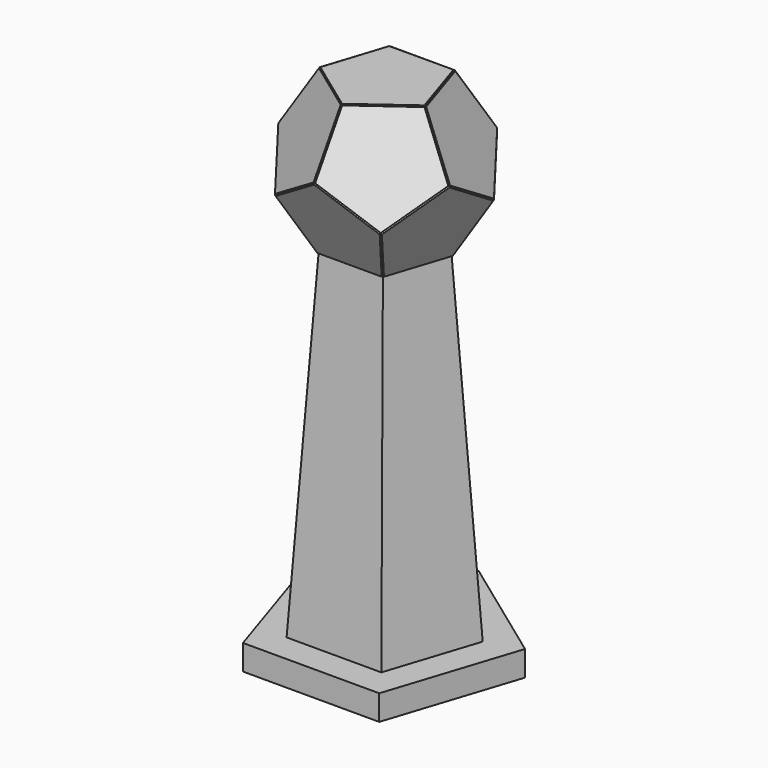
from build123d import *

# Parameters (mm, degrees)
F1_DEPTH      = 2
F1_DEPTH_BACK = 2
F4_ANGLE      = -116.51
F5_COUNT      = 5
F8_ANGLE      = -116.51
F9_COUNT      = 5
F14_ANGLE     = -116.51
F20_DEPTH     = 30


with BuildPart() as f1:
    # F0 (on Top) → F1 (new body, two sides)
    with BuildSketch(Plane.XY) as f1_sk:
        Polygon((38.2616896409, -52.6626978685), (61.9087143061, 20.1153606465), (0, 65.094674444), (-61.9087143061, 20.1153606465), (-38.2616896409, -52.6626978685), align=None)
    extrude(amount=-F1_DEPTH)
    extrude(f1_sk.sketch, amount=F1_DEPTH_BACK)


with BuildPart() as f3_1:
    # F3: copy of F1
    add(f1.part)


with BuildPart() as f3_1_1:
    # F4: moved
    add(f3_1.part.rotate(Axis((30.954357153, 42.6050175452, 0), (0.8090169944, -0.5877852523, 0)), F4_ANGLE))


with BuildPart() as f5_1:
    # F5: instance of F3_1
    add(f3_1_1.part.rotate(Axis((0, 0, 53.0848614872), (0, 0, 1)), 1 * 360 / F5_COUNT))


with BuildPart() as f5_2:
    # F5: instance of F3_1
    add(f3_1_1.part.rotate(Axis((0, 0, 53.0848614872), (0, 0, 1)), 2 * 360 / F5_COUNT))


with BuildPart() as f5_3:
    # F5: instance of F3_1
    add(f3_1_1.part.rotate(Axis((0, 0, 53.0848614872), (0, 0, 1)), 3 * 360 / F5_COUNT))


with BuildPart() as f5_4:
    # F5: instance of F3_1
    add(f3_1_1.part.rotate(Axis((0, 0, 53.0848614872), (0, 0, 1)), 4 * 360 / F5_COUNT))


with BuildPart() as f7_1:
    # F7: copy of F3_1
    add(f3_1_1.part)


with BuildPart() as f7_1_1:
    # F8: moved
    add(f7_1.part.rotate(Axis((80.9914244955, 58.8124345203, 85.250931688), (0.5002969823, -0.6877821992, -0.525983437)), F8_ANGLE))


with BuildPart() as f9_1:
    # F9: instance of F7_1
    add(f7_1_1.part.rotate(Axis((0, 0, 53.0848614872), (0, 0, 1)), 1 * 360 / F9_COUNT))


with BuildPart() as f9_2:
    # F9: instance of F7_1
    add(f7_1_1.part.rotate(Axis((0, 0, 53.0848614872), (0, 0, 1)), 2 * 360 / F9_COUNT))


with BuildPart() as f9_3:
    # F9: instance of F7_1
    add(f7_1_1.part.rotate(Axis((0, 0, 53.0848614872), (0, 0, 1)), 3 * 360 / F9_COUNT))


with BuildPart() as f9_4:
    # F9: instance of F7_1
    add(f7_1_1.part.rotate(Axis((0, 0, 53.0848614872), (0, 0, 1)), 4 * 360 / F9_COUNT))


with BuildPart() as f11_1:
    # F11: copy of F9_4
    add(f9_4.part)


with BuildPart() as f12_1:
    # F12: copy of F7_1
    add(f7_1_1.part)


with BuildPart() as f12_1_1:
    # F14: moved
    add(f12_1.part.rotate(Axis((49.7991616985, 16.4611398873, 170.3695933153), (0.3085369287, -0.9512120135, -0.0008179145)), F14_ANGLE))


with BuildPart() as f1_1:
    add(f1.part)

    # F15 (on face) → F18 section 0
    with BuildSketch(Plane(origin=(0, 0, -2), x_dir=(1, 0, 0), z_dir=(0, 0, -1))):
        Polygon((61.9087143061, -20.1153606465), (38.2616896409, 52.6626978685), (-38.2616896409, 52.6626978685), (-61.9087143061, -20.1153606465), (0, -65.094674444), align=None)
    # F17 (on offset) → F18 section 1
    with BuildSketch(Plane.XY.offset(-400)):
        Polygon((-56.358693348, -77.5710865855), (56.358693348, -77.5710865855), (91.1902813985, 29.6295185314), (0, 95.8831361082), (-91.1902813985, 29.6295185314), align=None)
    loft()

    add(f3_1_1.part)  # F20 merges F3_1

    add(f5_1.part)  # F20 merges F5_1

    add(f5_2.part)  # F20 merges F5_2

    add(f5_3.part)  # F20 merges F5_3

    add(f5_4.part)  # F20 merges F5_4

    add(f7_1_1.part)  # F20 merges F7_1

    add(f9_1.part)  # F20 merges F9_1

    add(f9_2.part)  # F20 merges F9_2

    add(f9_3.part)  # F20 merges F9_3

    add(f9_4.part)  # F20 merges F9_4

    add(f12_1_1.part)  # F20 merges F12_1
    # F19 (on offset) → F20 (join)
    with BuildSketch(Plane.XY.offset(-400)):
        Polygon((-81.073921122, -111.5886792541), (81.073921122, -111.5886792541), (131.1803599767, 42.6230827153), (0, 137.9311930774), (-131.1803599767, 42.6230827153), align=None)
    extrude(amount=-F20_DEPTH)


solid = f1_1.part
